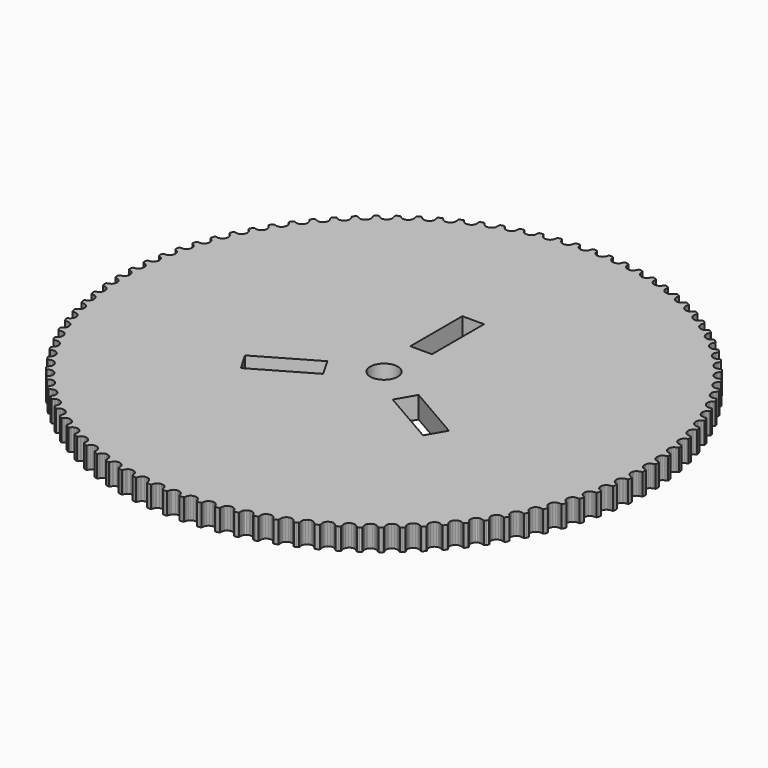
from build123d import *

# Parameters (mm, degrees)
F0_R     = 3.175
F0_W     = 5
F0_H     = 15
F1_DEPTH = 5


with BuildPart() as f1:
    # F0 (on Top) → F1 (new body)
    with BuildSketch(Plane.XY):
        Polygon((1.645678, -60.874562), (1.931777, -60.867744), (2.217737, -60.856447), (2.427363, -60.771911), (2.525377, -60.583751), (2.555452, -60.371243), (2.611569, -60.16341), (2.692773, -59.961615), (2.798248, -59.767612), (2.991979, -59.565622), (3.225348, -59.413497), (3.487078, -59.313378), (3.765773, -59.267604), (4.048072, -59.277733), (4.320378, -59.343959), (4.571102, -59.465309), (4.78885, -59.641198), (4.917718, -59.820203), (5.023855, -60.010116), (5.105975, -60.208989), (5.162832, -60.416043), (5.283617, -60.590569), (5.502514, -60.64764), (5.787637, -60.622708), (6.072273, -60.593295), (6.276113, -60.495709), (6.361973, -60.301511), (6.37853, -60.08764), (6.421323, -59.87669), (6.489595, -59.67022), (6.582565, -59.469789), (6.763089, -59.255917), (6.98633, -59.089378), (7.241203, -58.972898), (7.516411, -58.909399), (7.798768, -58.901608), (8.074736, -58.950498), (8.332648, -59.055681), (8.561089, -59.21735), (8.70106, -59.38798), (8.819021, -59.570686), (8.913627, -59.764106), (8.983495, -59.967069), (9.11511, -60.133414), (9.337221, -60.176655), (9.620123, -60.133608), (9.902344, -60.086276), (10.0996, -59.975834), (10.172975, -59.776572), (10.175916, -59.562116), (10.20525, -59.348829), (10.260296, -59.138463), (10.340332, -58.932578), (10.506969, -58.707799), (10.719204, -58.527235), (10.96613, -58.394978), (11.2368, -58.314143), (11.518086, -58.288432), (11.796566, -58.319597), (12.060653, -58.408223), (12.298892, -58.555089), (12.4494, -58.716564), (12.578716, -58.891284), (12.685399, -59.07847), (12.767987, -59.276564), (12.909905, -59.434338), (13.134276, -59.463361), (13.413925, -59.402394), (13.692542, -59.337142), (13.882397, -59.214624), (13.942994, -59.011076), (13.932339, -58.796815), (13.948078, -58.582164), (13.989664, -58.368682), (14.056513, -58.158122), (14.208541, -57.923214), (14.408895, -57.7296), (14.646919, -57.58176), (14.911921, -57.483979), (15.191045, -57.440737), (15.470928, -57.453983), (15.740118, -57.525857), (15.98718, -57.657336), (16.147622, -57.808682), (16.287749, -57.975026), (16.40608, -58.155006), (16.501075, -58.347451), (16.652713, -58.495875), (16.878467, -58.510679), (17.153695, -58.432181), (17.427637, -58.349399), (17.60933, -58.214999), (17.656877, -58.007945), (17.632646, -57.794852), (17.634769, -57.579618), (17.662701, -57.363993), (17.716091, -57.149537), (17.852867, -56.905475), (18.04056, -56.699589), (18.268748, -56.536946), (18.52701, -56.422608), (18.802822, -56.361641), (19.082978, -56.357161), (19.356181, -56.4117), (19.611112, -56.527207), (19.780768, -56.668229), (19.93114, -56.825224), (20.060671, -56.997412), (20.167801, -57.183429), (20.328497, -57.32192), (20.55464, -57.32231), (20.824414, -57.226671), (21.092629, -57.126553), (21.265402, -56.980855), (21.299683, -56.771464), (21.261896, -56.560125), (21.250403, -56.345085), (21.264622, -56.128292), (21.304358, -55.910914), (21.425318, -55.65867), (21.599649, -55.441293), (21.817026, -55.26443), (22.067517, -55.133926), (22.338849, -55.055623), (22.618168, -55.033418), (22.894369, -55.070427), (23.155963, -55.169571), (23.334384, -55.299686), (23.494495, -55.446747), (23.634544, -55.61017), (23.753166, -55.789175), (23.922432, -55.917147), (24.148186, -55.903318), (24.411337, -55.790538), (24.672541, -55.673864), (24.835769, -55.517453), (24.856805, -55.306114), (24.805577, -55.097696), (24.78045, -54.88402), (24.781035, -54.666447), (24.806746, -54.447122), (24.911539, -54.187672), (25.07165, -53.959776), (25.277341, -53.769473), (25.519066, -53.623386), (25.784945, -53.527943), (26.062315, -53.488207), (26.34027, -53.507685), (26.607707, -53.589883), (26.793919, -53.708311), (26.96299, -53.845049), (27.113168, -53.999317), (27.242893, -54.170336), (27.419951, -54.2874), (27.64434, -54.259157), (27.899895, -54.130016), (28.153113, -53.996979), (28.306017, -53.830635), (28.313614, -53.618322), (28.24953, -53.413605), (28.210768, -53.201876), (28.197523, -52.984888), (28.20921, -52.7642), (28.297447, -52.498711), (28.442755, -52.260881), (28.635979, -52.058112), (28.867965, -51.896832), (29.127221, -51.784832), (29.401475, -51.727566), (29.680209, -51.729319), (29.952321, -51.794571), (30.145545, -51.900923), (30.322992, -52.026557), (30.482714, -52.171086), (30.622957, -52.333535), (30.807027, -52.439107), (31.029274, -52.396645), (31.276064, -52.251531), (31.520321, -52.102717), (31.662513, -51.926829), (31.656474, -51.71471), (31.579535, -51.514279), (31.527528, -51.305472), (31.500454, -51.089847), (31.498311, -50.868964), (31.569407, -50.598216), (31.699327, -50.351816), (31.879306, -50.137165), (32.100579, -49.961471), (32.352238, -49.833109), (32.622402, -49.758508), (32.900552, -49.74273), (33.176169, -49.790452), (33.376016, -49.884532), (33.560865, -49.998675), (33.729547, -50.132685), (33.879724, -50.285784), (34.070222, -50.37967), (34.289352, -50.323183), (34.526208, -50.162682), (34.760726, -49.998675), (34.891426, -49.814215), (34.871947, -49.602876), (34.782542, -49.407704), (34.71729, -49.202598), (34.67658, -48.989116), (34.660413, -48.768817), (34.714173, -48.494173), (34.828316, -48.239982), (34.994271, -48.014229), (35.204052, -47.8249), (35.446946, -47.680955), (35.71185, -47.589407), (35.988442, -47.555905), (36.266592, -47.586096), (36.471892, -47.667126), (36.663753, -47.769387), (36.840421, -47.892489), (37.000143, -48.035849), (37.196095, -48.117269), (37.411135, -48.047147), (37.637472, -47.872037), (37.861083, -47.693227), (37.979705, -47.500976), (37.946982, -47.291195), (37.845305, -47.102256), (37.767197, -46.90163), (37.713048, -46.69107), (37.683051, -46.472329), (37.719281, -46.194763), (37.816867, -45.933949), (37.968408, -45.698067), (38.165528, -45.495883), (38.398878, -45.336745), (38.657354, -45.228641), (38.931414, -45.177803), (39.210927, -45.190269), (39.420903, -45.258053), (39.618802, -45.348043), (39.803066, -45.459459), (39.971553, -45.592495), (40.172179, -45.661253), (40.38235, -45.577692), (40.597195, -45.388558), (40.808924, -45.196112), (40.915276, -44.996655), (40.869307, -44.789211), (40.755748, -44.607089), (40.665175, -44.411917), (40.59778, -44.205253), (40.553759, -43.988849), (40.572458, -43.709531), (40.653293, -43.442873), (40.789446, -43.198031), (40.973516, -42.98377), (41.196347, -42.810219), (41.447422, -42.685753), (41.717585, -42.617579), (41.997293, -42.61232), (42.211165, -42.666664), (42.414518, -42.743993), (42.605405, -42.843527), (42.781878, -42.965656), (42.986595, -43.021558), (43.191117, -42.924751), (43.393496, -42.722372), (43.592564, -42.516876), (43.686059, -42.310991), (43.62704, -42.107053), (43.502185, -41.932528), (43.399339, -41.743394), (43.318894, -41.541405), (43.261238, -41.328117), (43.262212, -41.048215), (43.326101, -40.777077), (43.446477, -40.524054), (43.616522, -40.298496), (43.827861, -40.111115), (44.070561, -39.971066), (44.335855, -39.885946), (44.614589, -39.862962), (44.831577, -39.903672), (45.03941, -39.967755), (45.23614, -40.055212), (45.420015, -40.165654), (45.627848, -40.208506), (45.825747, -40.099039), (46.014881, -39.884193), (46.200704, -39.666426), (46.28076, -39.455087), (46.208885, -39.25524), (46.073316, -39.08909), (45.958589, -38.906774), (45.865678, -38.710238), (45.794582, -38.501236), (45.777831, -38.221723), (45.824384, -37.947079), (45.928398, -37.687044), (46.083835, -37.451163), (46.282902, -37.250731), (46.516252, -37.095489), (46.775508, -36.993618), (47.052294, -36.953103), (47.271425, -36.979983), (47.482764, -37.030821), (47.684754, -37.105423), (47.875446, -37.204178), (48.085422, -37.233785), (48.276114, -37.111851), (48.451224, -36.885514), (48.622632, -36.656254), (48.689248, -36.440435), (48.604907, -36.245458), (48.459015, -36.088268), (48.33299, -35.913548), (48.227613, -35.72344), (48.143662, -35.519113), (48.10899, -35.241548), (48.138013, -34.964372), (48.22547, -34.698104), (48.365519, -34.452872), (48.551537, -34.240364), (48.774563, -34.070709), (49.026806, -33.95267), (49.300476, -33.89443), (49.52097, -33.907481), (49.735036, -33.944684), (49.941311, -34.00643), (50.137847, -34.092719), (50.349381, -34.109081), (50.531892, -33.975265), (50.692199, -33.738215), (50.848804, -33.498632), (50.90159, -33.278917), (50.805172, -33.089783), (50.649541, -32.942138), (50.512804, -32.775793), (50.395544, -32.592698), (50.298737, -32.394214), (50.246536, -32.119376), (50.258028, -31.841031), (50.32815, -31.569699), (50.452616, -31.316092), (50.624609, -31.092092), (50.836338, -30.908606), (51.08079, -30.774791), (51.350174, -30.69941), (51.570863, -30.698436), (51.787072, -30.722004), (51.996853, -30.770505), (52.198453, -30.844328), (52.410572, -30.847055), (52.584123, -30.701942), (52.729236, -30.455152), (52.870453, -30.20622), (52.90902, -29.983583), (52.800721, -29.801072), (52.63613, -29.66336), (52.489069, -29.506171), (52.360512, -29.330866), (52.251239, -29.138811), (52.181702, -28.867868), (52.175469, -28.589329), (52.22845, -28.314101), (52.336359, -28.053092), (52.493939, -27.818574), (52.693591, -27.622233), (52.929083, -27.473029), (53.193208, -27.380702), (53.413313, -27.365704), (53.63069, -27.375638), (53.843004, -27.410699), (54.048889, -27.471471), (54.260812, -27.460952), (54.424819, -27.305126), (54.55396, -27.049571), (54.679011, -26.792263), (54.703554, -26.567484), (54.583762, -26.39218), (54.4106, -26.265376), (54.253995, -26.117731), (54.114531, -25.950997), (53.993376, -25.766343), (53.906892, -25.500075), (53.882934, -25.22251), (53.918384, -24.944555), (54.009543, -24.677313), (54.151734, -24.43325), (54.338726, -24.224443), (54.564089, -24.060826), (54.821981, -23.951942), (55.040722, -23.922919), (55.2581, -23.919024), (55.472361, -23.940645), (55.681557, -23.988172), (55.892507, -23.964213), (56.046191, -23.798259), (56.15897, -23.535107), (56.267464, -23.270397), (56.277593, -23.044644), (56.147088, -22.877131), (55.96633, -22.761625), (55.80057, -22.624108), (55.650782, -22.466529), (55.518135, -22.290056), (55.4149, -22.029826), (55.373411, -21.754404), (55.391136, -21.474696), (55.465154, -21.202195), (55.591763, -20.949561), (55.764924, -20.729457), (55.979575, -20.551815), (56.229871, -20.426765), (56.446469, -20.383913), (56.663068, -20.366187), (56.878302, -20.374173), (57.090226, -20.408455), (57.299033, -20.371057), (57.442004, -20.195752), (57.537837, -19.925978), (57.62919, -19.654841), (57.625099, -19.428854), (57.484271, -19.270067), (57.296501, -19.166131), (57.122365, -19.039561), (56.962838, -18.891721), (56.819283, -18.723916), (56.699687, -18.470893), (56.640862, -18.198587), (56.640862, -17.918373), (56.697349, -17.641664), (56.807791, -17.38159), (56.966734, -17.150851), (57.169503, -16.959944), (57.411423, -16.819292), (57.624904, -16.762863), (57.839945, -16.731445), (58.055179, -16.725738), (58.268856, -16.746482), (58.474936, -16.695897), (58.606609, -16.511827), (58.684912, -16.236619), (58.759124, -15.960203), (58.74062, -15.734936), (58.589858, -15.585421), (58.395854, -15.493601), (58.214122, -15.378348), (58.045635, -15.240889), (57.891562, -15.082551), (57.756383, -14.837592), (57.680418, -14.569551), (57.662498, -14.289941), (57.701454, -14.010174), (57.79495, -13.743653), (57.939089, -13.503311), (58.129392, -13.299919), (58.361962, -13.14421), (58.571159, -13.074341), (58.784056, -13.029327), (58.998512, -13.009985), (59.212968, -13.017153), (59.415347, -12.953595), (59.534944, -12.761578), (59.595911, -12.481929), (59.652203, -12.201344), (59.619479, -11.977734), (59.459563, -11.838075), (59.2603, -11.75874), (59.071556, -11.655252), (58.894693, -11.52876), (58.730881, -11.380511), (58.580314, -11.144609), (58.487402, -10.881964), (58.451952, -10.604009), (58.472988, -10.322334), (58.549538, -10.050437), (58.678095, -9.801407), (58.855152, -9.586348), (59.077204, -9.416205), (59.281726, -9.333208), (59.491312, -9.274832), (59.704015, -9.241894), (59.918471, -9.235447), (60.116565, -9.159189), (60.223695, -8.959965), (60.266742, -8.677005), (60.305309, -8.39344), (60.258367, -8.172342), (60.090074, -8.043104), (59.885942, -7.976566), (59.690965, -7.885252), (59.506505, -7.770233), (59.333733, -7.632658), (59.168557, -7.406807), (59.05909, -7.15057), (59.006109, -6.87544), (59.009225, -6.593005), (59.068439, -6.316803), (59.180829, -6.060099), (59.343862, -5.834248), (59.554812, -5.650354), (59.753685, -5.55456), (59.958986, -5.482997), (60.169156, -5.436658), (60.382833, -5.416615), (60.575668, -5.32793), (60.670137, -5.122298), (60.695069, -4.837234), (60.715327, -4.55176), (60.654749, -4.334071), (60.478471, -4.215779), (60.270443, -4.162351), (60.070207, -4.083561), (59.878735, -3.980482), (59.697587, -3.854126), (59.518387, -3.639223), (59.392947, -3.390427), (59.322631, -3.119211), (59.307827, -2.837146), (59.349316, -2.55775), (59.445149, -2.294462), (59.593573, -2.058717), (59.792446, -1.861815), (59.984892, -1.753599), (60.185323, -1.66913), (60.392182, -1.609567), (60.604106, -1.576012), (60.790903, -1.475286), (60.871932, -1.264085), (60.87875, -0.977986), (60.881087, -0.691829), (60.80668, -0.478398), (60.623195, -0.37155), (60.41244, -0.331395), (60.207528, -0.265473), (60.009824, -0.174734), (59.821079, -0.060127), (59.628634, 0.14293), (59.487806, 0.383288), (59.400154, 0.649472), (59.367625, 0.930043), (59.391194, 1.211506), (59.470276, 1.480366), (59.603507, 1.725033), (59.789525, 1.934153), (59.974568, 2.054354), (60.169156, 2.151336), (60.371925, 2.223912), (60.581316, 2.270874), (60.761296, 2.383225), (60.828885, 2.599141), (60.817588, 2.885102), (60.801616, 3.170829), (60.713963, 3.37909), (60.52405, 3.474105), (60.310958, 3.50081), (60.102346, 3.553596), (59.899382, 3.631607), (59.703626, 3.734004), (59.498714, 3.924521), (59.342888, 4.155416), (59.238679, 4.415549), (59.188425, 4.693503), (59.194074, 4.97588), (59.256015, 5.249199), (59.373274, 5.501832), (59.545657, 5.722326), (59.722714, 5.854038), (59.910874, 5.963175), (60.108579, 6.048431), (60.314464, 6.108561), (60.487042, 6.232112), (60.540802, 6.451885), (60.511389, 6.73656), (60.477302, 7.020709), (60.3766, 7.222971), (60.181038, 7.305754), (59.966777, 7.318921), (59.755243, 7.358345), (59.547799, 7.423364), (59.346004, 7.513119), (59.129211, 7.690216), (58.959166, 7.910788), (58.838596, 8.163752), (58.770811, 8.437948), (58.75854, 8.720168), (58.80295, 8.996838), (58.904043, 9.256405), (59.062011, 9.487398), (59.230498, 9.630057), (59.411257, 9.7509), (59.603118, 9.848564), (59.804913, 9.921627), (59.969309, 10.055871), (60.009045, 10.278605), (59.961518, 10.560845), (59.909511, 10.842268), (59.796147, 11.037732), (59.595716, 11.107932), (59.381065, 11.107484), (59.167389, 11.133429), (58.956244, 11.185144), (58.74919, 11.261907), (58.521684, 11.424941), (58.337809, 11.634273), (58.201656, 11.879076), (58.116536, 12.148422), (58.086539, 12.429279), (58.113225, 12.708227), (58.197566, 12.973697), (58.340731, 13.214234), (58.499674, 13.367255), (58.672446, 13.499337), (58.857684, 13.608961), (59.054415, 13.694685), (59.210046, 13.839097), (59.235563, 14.063915), (59.170116, 14.342552), (59.100578, 14.620117), (58.974943, 14.807985), (58.770422, 14.865348), (58.556355, 14.851285), (58.34151, 14.863615), (58.127444, 14.901812), (57.91591, 14.96533), (57.67847, 15.11358), (57.481739, 15.310816), (57.330198, 15.546504), (57.228132, 15.809928), (57.18041, 16.088292), (57.18937, 16.36837), (57.256765, 16.63865), (57.384348, 16.887777), (57.533357, 17.050616), (57.697364, 17.193372), (57.875395, 17.314546), (58.066282, 17.412561), (58.212174, 17.566517), (58.223472, 17.792504), (58.140689, 18.066446), (58.053426, 18.339045), (57.916299, 18.518556), (57.708661, 18.56285), (57.495764, 18.53523), (57.280529, 18.533905), (57.064515, 18.558448), (56.84928, 18.60841), (56.603074, 18.741329), (56.394267, 18.925691), (56.227923, 19.151308), (56.109495, 19.407701), (56.044243, 19.6825), (56.035283, 19.962598), (56.085537, 20.236657), (56.196952, 20.49338), (56.335248, 20.665179), (56.489906, 20.818083), (56.659951, 20.950341), (56.844215, 21.060198), (56.980174, 21.223231), (56.977057, 21.449374), (56.876939, 21.71759), (56.77273, 21.984052), (56.624306, 22.154487), (56.41433, 22.185653), (56.203575, 22.144553), (55.988925, 22.129555), (55.771742, 22.140268), (55.553975, 22.176498), (55.299589, 22.293562), (55.079484, 22.464387), (54.89931, 22.678842), (54.76491, 22.927385), (54.682127, 23.197354), (54.655637, 23.476283), (54.68836, 23.753069), (54.78322, 24.01622), (54.910413, 24.196589), (55.055136, 24.359038), (55.216222, 24.501814), (55.393279, 24.623163), (55.518719, 24.794377), (55.501189, 25.019936), (55.384319, 25.281139), (55.263359, 25.54059), (55.104416, 25.701286), (54.892882, 25.718816), (54.685244, 25.664472), (54.471957, 25.636033), (54.254579, 25.632917), (54.03467, 25.655317), (53.773661, 25.756019), (53.543233, 25.91243), (53.349814, 26.115199), (53.199636, 26.354587), (53.100102, 26.618907), (53.055887, 26.895498), (53.07108, 27.173648), (53.148993, 27.442448), (53.264499, 27.630608), (53.398509, 27.801822), (53.55044, 27.954337), (53.719317, 28.086789), (53.833459, 28.2656), (53.80171, 28.4896), (53.668673, 28.743012), (53.531546, 28.994087), (53.362669, 29.144459), (53.150356, 29.14855), (52.946614, 29.081155), (52.735469, 29.039277), (52.518676, 29.022331), (52.297987, 29.030706), (52.031135, 29.114658), (51.791163, 29.25607), (51.585277, 29.446178), (51.420296, 29.675632), (51.304206, 29.93294), (51.24246, 30.206415), (51.239927, 30.484954), (51.3007, 30.758039), (51.404129, 30.953212), (51.527037, 31.132412), (51.668839, 31.294471), (51.82895, 31.437247), (51.931601, 31.623069), (51.885827, 31.844537), (51.736818, 32.088989), (51.583914, 32.33091), (51.406077, 32.470179), (51.193959, 32.46083), (50.994891, 32.380774), (50.786863, 32.325456), (50.571628, 32.294875), (50.350744, 32.289226), (50.079023, 32.356037), (49.83048, 32.482061), (49.613102, 32.658729), (49.433902, 32.87708), (49.301645, 33.126597), (49.222758, 33.395592), (49.2025, 33.673352), (49.245937, 33.949943), (49.336706, 34.150959), (49.447927, 34.337756), (49.57921, 34.50858), (49.729972, 34.66129), (49.820741, 34.852956), (49.760748, 35.071307), (49.596741, 35.305631), (49.428838, 35.537422), (49.242431, 35.6652), (49.031286, 35.64241), (48.837672, 35.549889), (48.63354, 35.481325), (48.420643, 35.437304), (48.200733, 35.417631), (47.92531, 35.467106), (47.669366, 35.576963), (47.44108, 35.739607), (47.24844, 35.946077), (47.1006, 36.186828), (47.004767, 36.450174), (46.966979, 36.726181), (46.992691, 37.004915), (47.070604, 37.211385), (47.169748, 37.404804), (47.289929, 37.58342), (47.430757, 37.745479), (47.50906, 37.942599), (47.435432, 38.156665), (47.256816, 38.380081), (47.074694, 38.60077), (46.880496, 38.716471), (46.671299, 38.680436), (46.483918, 38.575643), (46.284656, 38.494419), (46.074875, 38.436958), (45.856523, 38.403455), (45.578568, 38.435205), (45.316196, 38.5287), (45.077977, 38.676346), (44.872676, 38.870349), (44.709837, 39.101167), (44.597643, 39.358085), (44.542324, 39.630976), (44.550505, 39.910684), (44.614978, 40.121828), (44.701656, 40.321286), (44.810345, 40.507108), (44.940655, 40.677738), (45.006297, 40.879533), (44.919229, 41.08834), (44.726783, 41.300069), (44.530832, 41.508681), (44.329816, 41.611916), (44.123152, 41.562636), (43.942978, 41.446156), (43.749169, 41.352465), (43.543479, 41.281759), (43.327854, 41.234427), (43.048341, 41.248646), (42.780515, 41.32539), (42.53353, 41.457648), (42.316347, 41.638212), (42.139095, 41.858121), (42.010928, 42.107248), (41.938469, 42.376243), (41.92873, 42.655951), (41.979763, 42.870602), (42.053586, 43.075124), (42.150198, 43.267569), (42.269405, 43.446185), (42.322191, 43.65168), (42.222073, 43.854449), (42.016577, 44.053712), (41.80777, 44.249468), (41.600521, 44.339653), (41.397557, 44.277322), (41.22498, 44.14974), (41.037599, 44.043973), (40.836778, 43.960411), (40.62466, 43.899444), (40.344757, 43.895743), (40.072646, 43.955347), (39.817675, 44.071632), (39.58939, 44.238171), (39.398697, 44.446589), (39.254948, 44.68695), (39.165542, 44.950881), (39.138078, 45.22942), (39.175282, 45.446798), (39.236249, 45.655605), (39.320395, 45.853699), (39.42811, 46.039521), (39.46765, 46.247939), (39.354871, 46.444085), (39.137104, 46.629713), (38.916415, 46.81203), (38.703907, 46.888774), (38.505229, 46.813783), (38.341222, 46.675487), (38.160853, 46.558033), (37.965681, 46.46181), (37.757653, 46.387598), (37.478724, 46.366172), (37.203302, 46.40844), (36.941514, 46.508363), (36.703294, 46.659904), (36.499746, 46.855856), (36.340804, 47.086673), (36.235037, 47.344371), (36.189847, 47.620573), (36.213416, 47.839898), (36.260748, 48.052211), (36.332233, 48.25537), (36.427872, 48.447425), (36.454167, 48.657985), (36.329117, 48.846535), (36.100052, 49.018139), (35.868261, 49.186041), (35.651273, 49.249151), (35.457854, 49.161693), (35.302807, 49.013269), (35.130229, 48.884518), (34.94168, 48.776218), (34.738911, 48.688956), (34.461735, 48.649999), (34.184364, 48.674542), (33.916733, 48.757714), (33.669164, 48.893867), (33.453734, 49.076379), (33.280573, 49.296678), (33.158444, 49.547168), (33.095919, 49.819864), (33.105463, 50.040358), (33.139355, 50.255204), (33.19779, 50.462452), (33.280962, 50.660352), (33.294013, 50.87208), (33.157275, 51.052449), (32.917692, 51.209054), (32.675772, 51.361764), (32.455278, 51.411044), (32.267703, 51.31151), (32.122395, 51.153541), (31.958388, 51.014272), (31.777045, 50.894091), (31.58012, 50.794167), (31.30606, 50.73768), (31.027521, 50.744692), (30.755215, 50.810529), (30.49966, 50.930905), (30.272933, 51.099392), (30.086136, 51.308199), (29.948425, 51.550509), (29.868759, 51.818724), (29.864279, 52.039413), (29.884536, 52.255817), (29.929726, 52.466377), (30.000237, 52.669146), (29.999653, 52.881264), (29.851813, 53.052478), (29.60288, 53.193695), (29.351611, 53.330822), (29.12839, 53.366078), (28.947631, 53.254662), (28.812647, 53.087928), (28.657795, 52.938335), (28.484438, 52.807052), (28.29433, 52.694857), (28.024361, 52.621034), (27.745822, 52.610321), (27.47001, 52.658822), (27.207248, 52.762641), (26.970392, 52.91652), (26.77074, 53.113055), (26.617836, 53.346015), (26.521418, 53.608777), (26.502914, 53.828687), (26.509342, 54.046064), (26.541091, 54.258962), (26.598552, 54.465821), (26.584528, 54.67755), (26.426169, 54.839025), (26.168667, 54.964075), (25.909411, 55.085035), (25.684242, 55.105877), (25.510885, 54.983554), (25.386809, 54.808444), (25.241696, 54.649307), (25.077104, 54.50731), (24.894398, 54.383233), (24.629688, 54.292465), (24.352513, 54.264221), (24.073973, 54.295192), (23.805368, 54.382065), (23.559163, 54.520555), (23.347434, 54.70404), (23.180116, 54.926872), (23.067142, 55.182816), (23.034613, 55.401168), (23.027406, 55.618545), (23.045521, 55.833001), (23.089736, 56.042977), (23.062467, 56.253537), (22.89398, 56.404688), (22.62927, 56.513182), (22.362613, 56.617391), (22.136859, 56.624014), (21.971489, 56.490782), (21.85871, 56.308076), (21.724115, 56.140173), (21.568678, 55.988048), (21.394348, 55.852674), (21.135871, 55.745154), (20.861033, 55.69938), (20.58113, 55.712625), (20.30746, 55.782358), (20.053074, 55.904876), (19.830048, 56.074726), (19.649095, 56.286455), (19.519954, 56.534803), (19.47379, 56.750622), (19.452656, 56.967026), (19.457195, 57.182261), (19.488204, 57.394574), (19.447358, 57.602797), (19.269775, 57.74304), (18.998598, 57.834588), (18.72602, 57.921656), (18.500169, 57.914059), (18.343622, 57.770505), (18.242666, 57.581176), (18.118901, 57.405092), (17.973593, 57.243228), (17.808106, 57.096946), (17.556992, 56.973454), (17.28566, 56.910344), (17.005465, 56.905864), (16.72788, 56.958066), (16.466151, 57.064222), (16.232898, 57.219464), (16.038778, 57.419311), (15.894308, 57.658894), (15.834509, 57.871402), (15.799663, 58.086053), (15.790527, 58.301093), (15.807902, 58.515159), (15.754045, 58.720265), (15.56793, 58.849016), (15.291494, 58.923034), (15.013929, 58.992766), (14.789033, 58.970756), (14.641894, 58.817656), (14.55319, 58.622289), (14.4408, 58.438609), (14.306049, 58.26798), (14.150165, 58.111569), (13.907388, 57.972299), (13.640613, 57.892049), (13.361295, 57.869844), (13.080964, 57.90432), (12.812982, 57.993531), (12.57038, 58.133774), (12.363988, 58.32096), (12.204597, 58.550999), (12.131417, 58.759222), (12.083033, 58.971145), (12.060302, 59.185211), (12.064062, 59.399862), (11.99729, 59.601267), (11.803403, 59.717747), (11.522819, 59.774234), (11.241416, 59.826241), (11.018312, 59.790012), (10.881244, 59.627758), (10.805045, 59.427131), (10.704556, 59.236829), (10.580908, 59.058018), (10.43525, 58.891869), (10.201783, 58.737601), (9.940638, 58.640599), (9.663306, 58.600668), (9.381319, 58.617225), (9.108234, 58.689489), (8.857218, 58.813956), (8.639373, 58.987702), (8.465724, 59.207027), (8.379493, 59.410185), (8.317767, 59.618798), (8.281498, 59.830916), (8.271642, 60.045372), (8.192229, 60.242102), (7.99133, 60.346116), (7.707766, 60.384683), (7.423597, 60.418575), (7.203259, 60.368321), (7.076748, 60.197887), (7.013443, 59.99278), (6.925226, 59.796439), (6.813148, 59.610227), (6.67832, 59.435118), (6.455118, 59.266436), (6.200635, 59.153072), (5.9264, 59.095611), (5.643965, 59.094248), (5.366828, 59.148982), (5.10841, 59.257281), (4.880008, 59.416808), (4.692763, 59.624836), (4.593833, 59.822151), (4.519037, 60.026283), (4.469348, 60.235674), (4.445915, 60.449156), (4.354192, 60.640433), (4.147099, 60.731591), (3.861645, 60.751849), (3.575918, 60.767821), (3.359203, 60.703737), (3.243736, 60.525511), (3.193579, 60.316899), (3.117984, 60.115299), (3.017983, 59.922269), (2.89451, 59.738979), (2.68245, 59.556467), (2.435699, 59.427131), (2.165633, 59.352335), (1.883837, 59.333246), (1.603802, 59.370255), (1.339041, 59.461998), (1.100972, 59.606721), (0.900917, 59.802283), (0.789671, 59.992975), (0.702051, 60.192043), (0.63922, 60.397928), (0.602276, 60.609268), (0.498607, 60.794506), (0.286159, 60.872224), (0, 60.874562), (-0.286159, 60.872224), (-0.49834, 60.794506), (-0.602276, 60.609268), (-0.639102, 60.397928), (-0.701753, 60.192043), (-0.789343, 59.992975), (-0.900917, 59.802283), (-1.100972, 59.606721), (-1.339041, 59.461998), (-1.603802, 59.370255), (-1.883837, 59.333246), (-2.165633, 59.352335), (-2.435699, 59.427131), (-2.68245, 59.556467), (-2.89451, 59.738979), (-3.017613, 59.922269), (-3.117692, 60.115299), (-3.193482, 60.316899), (-3.243736, 60.525511), (-3.35895, 60.703737), (-3.575918, 60.767821), (-3.861645, 60.751849), (-4.147099, 60.731591), (-4.353939, 60.640433), (-4.445915, 60.449156), (-4.46925, 60.235674), (-4.518705, 60.026283), (-4.593522, 59.822151), (-4.692763, 59.624836), (-4.880008, 59.416808), (-5.10841, 59.257281), (-5.366828, 59.148982), (-5.643965, 59.094248), (-5.9264, 59.095611), (-6.200635, 59.153072), (-6.455118, 59.266436), (-6.67832, 59.435118), (-6.812817, 59.610227), (-6.924934, 59.796439), (-7.013327, 59.99278), (-7.076748, 60.197887), (-7.203006, 60.368321), (-7.423597, 60.418575), (-7.707766, 60.384683), (-7.99133, 60.346116), (-8.191976, 60.242102), (-8.271642, 60.045372), (-8.28142, 59.830916), (-8.317475, 59.618798), (-8.379162, 59.41038), (-8.465724, 59.207027), (-8.639373, 58.987702), (-8.857218, 58.813956), (-9.108234, 58.689489), (-9.381319, 58.617225), (-9.663306, 58.600668), (-9.940638, 58.640599), (-10.201783, 58.737601), (-10.43525, 58.891869), (-10.580557, 59.058018), (-10.704283, 59.236829), (-10.804947, 59.427131), (-10.881244, 59.627758), (-11.018059, 59.790012), (-11.241416, 59.826241), (-11.522819, 59.774234), (-11.803384, 59.717747), (-11.997037, 59.601267), (-12.064062, 59.399862), (-12.060205, 59.185211), (-12.082741, 58.971145), (-12.131086, 58.759222), (-12.204597, 58.550999), (-12.363988, 58.32096), (-12.57038, 58.133774), (-12.812982, 57.993531), (-13.080964, 57.90432), (-13.361295, 57.869844), (-13.640613, 57.892049), (-13.907388, 57.972299), (-14.150165, 58.111569), (-14.305718, 58.26798), (-14.440508, 58.438609), (-14.553073, 58.622289), (-14.641894, 58.817656), (-14.78876, 58.970756), (-15.013929, 58.992766), (-15.291494, 58.923034), (-15.56793, 58.849016), (-15.753791, 58.72046), (-15.807902, 58.515159), (-15.79043, 58.301093), (-15.79937, 58.086053), (-15.834159, 57.871402), (-15.894308, 57.658894), (-16.038778, 57.419311), (-16.232898, 57.219464), (-16.466151, 57.064222), (-16.72788, 56.958066), (-17.005465, 56.905864), (-17.28566, 56.910344), (-17.556992, 56.973454), (-17.808106, 57.096946), (-17.973262, 57.243423), (-18.118609, 57.405092), (-18.242569, 57.581176), (-18.343622, 57.770505), (-18.499877, 57.914059), (-18.72602, 57.921656), (-18.998598, 57.834588), (-19.269775, 57.74304), (-19.447125, 57.602991), (-19.488204, 57.394574), (-19.457117, 57.182261), (-19.452384, 56.967026), (-19.473479, 56.750622), (-19.519954, 56.534803), (-19.649095, 56.286455), (-19.830048, 56.074726), (-20.053074, 55.904876), (-20.30746, 55.782358), (-20.58113, 55.712625), (-20.861033, 55.69938), (-21.135871, 55.745154), (-21.394348, 55.852674), (-21.568484, 55.988243), (-21.723725, 56.140368), (-21.85871, 56.308271), (-21.971489, 56.490782), (-22.13647, 56.624014), (-22.362613, 56.617391), (-22.62927, 56.513182), (-22.89398, 56.404688), (-23.062077, 56.253537), (-23.089736, 56.042977), (-23.045521, 55.833001), (-23.027016, 55.618545), (-23.034418, 55.401363), (-23.067142, 55.182816), (-23.180116, 54.926872), (-23.347434, 54.70404), (-23.559163, 54.520555), (-23.805368, 54.382065), (-24.073973, 54.295192), (-24.352513, 54.264221), (-24.629688, 54.292465), (-24.894398, 54.383233), (-25.076715, 54.507505), (-25.241501, 54.649501), (-25.386614, 54.808444), (-25.510885, 54.983554), (-25.684047, 55.106072), (-25.909411, 55.085035), (-26.168667, 54.964075), (-26.426169, 54.839025), (-26.584333, 54.67755), (-26.598552, 54.465821), (-26.540896, 54.258962), (-26.508952, 54.046064), (-26.502524, 53.828882), (-26.521418, 53.608777), (-26.617836, 53.346015), (-26.77074, 53.113055), (-26.970392, 52.91652), (-27.207248, 52.762641), (-27.47001, 52.658822), (-27.745822, 52.610321), (-28.024361, 52.621034), (-28.29433, 52.694857), (-28.484049, 52.807247), (-28.657405, 52.93853), (-28.812452, 53.087928), (-28.947631, 53.254662), (-29.128195, 53.366078), (-29.351611, 53.330822), (-29.60288, 53.193695), (-29.851813, 53.052478), (-29.999458, 52.881459), (-30.000237, 52.669146), (-29.929531, 52.466377), (-29.884147, 52.256011), (-29.864084, 52.039608), (-29.868759, 51.818724), (-29.948425, 51.550509), (-30.086136, 51.308199), (-30.272933, 51.099392), (-30.49966, 50.930905), (-30.755215, 50.810529), (-31.027521, 50.744692), (-31.30606, 50.73768), (-31.58012, 50.794167), (-31.77685, 50.894286), (-31.957998, 51.014467), (-32.1222, 51.153541), (-32.267703, 51.31151), (-32.454889, 51.411239), (-32.675772, 51.361764), (-32.917692, 51.209054), (-33.157275, 51.052449), (-33.293623, 50.872275), (-33.280962, 50.660352), (-33.19779, 50.462452), (-33.13916, 50.255398), (-33.105268, 50.040553), (-33.095919, 49.819864), (-33.158444, 49.547168), (-33.280573, 49.296678), (-33.453734, 49.076379), (-33.669164, 48.893867), (-33.916733, 48.757714), (-34.184364, 48.674542), (-34.461735, 48.649999), (-34.738911, 48.688956), (-34.941485, 48.776413), (-35.130034, 48.884712), (-35.302807, 49.013269), (-35.457854, 49.161693), (-35.651078, 49.249346), (-35.868261, 49.186041), (-36.100052, 49.018139), (-36.329117, 48.846535), (-36.453972, 48.65818), (-36.427872, 48.447425), (-36.332233, 48.25537), (-36.260553, 48.052406), (-36.213026, 47.840288), (-36.189847, 47.620573), (-36.235037, 47.344371), (-36.340804, 47.086673), (-36.499746, 46.855856), (-36.703294, 46.659904), (-36.941514, 46.508363), (-37.203302, 46.40844), (-37.478724, 46.366172), (-37.757653, 46.387598), (-37.965486, 46.462005), (-38.160464, 46.558228), (-38.341027, 46.675487), (-38.505229, 46.813783), (-38.703713, 46.888969), (-38.916415, 46.81203), (-39.137104, 46.629713), (-39.354871, 46.444085), (-39.467456, 46.248134), (-39.42811, 46.039521), (-39.320395, 45.853894), (-39.235859, 45.6558), (-39.175087, 45.446992), (-39.138078, 45.22942), (-39.165542, 44.950881), (-39.254948, 44.68695), (-39.398697, 44.446589), (-39.58939, 44.238171), (-39.817675, 44.071632), (-40.072646, 43.955347), (-40.344757, 43.895743), (-40.62466, 43.899444), (-40.836583, 43.960606), (-41.037404, 44.044167), (-41.22498, 44.14974), (-41.397557, 44.277322), (-41.600326, 44.339848), (-41.80777, 44.249468), (-42.016577, 44.053712), (-42.222073, 43.854449), (-42.321996, 43.651875), (-42.269405, 43.446185), (-42.150198, 43.267569), (-42.053391, 43.075318), (-41.979373, 42.870991), (-41.92873, 42.655951), (-41.938469, 42.376243), (-42.010928, 42.107248), (-42.139095, 41.858121), (-42.316347, 41.638212), (-42.53353, 41.457648), (-42.780515, 41.32539), (-43.048341, 41.248646), (-43.327854, 41.234427), (-43.543284, 41.281954), (-43.748974, 41.35266), (-43.942783, 41.446351), (-44.123152, 41.562636), (-44.329622, 41.612111), (-44.530832, 41.508681), (-44.726783, 41.300069), (-44.919229, 41.08834), (-45.006102, 40.879728), (-44.940655, 40.677738), (-44.81015, 40.507108), (-44.701462, 40.32148), (-44.614783, 40.122023), (-44.550505, 39.910684), (-44.542324, 39.630976), (-44.597643, 39.358085), (-44.709837, 39.101167), (-44.872676, 38.870349), (-45.077977, 38.676346), (-45.316196, 38.5287), (-45.578568, 38.435205), (-45.856523, 38.403455), (-46.07468, 38.437153), (-46.284461, 38.494613), (-46.483918, 38.575838), (-46.671299, 38.680436), (-46.880301, 38.716666), (-47.074694, 38.60077), (-47.256816, 38.380081), (-47.435432, 38.156665), (-47.508865, 37.942794), (-47.430757, 37.745479), (-47.289929, 37.583615), (-47.169553, 37.405194), (-47.070409, 37.21158), (-46.992691, 37.004915), (-46.966979, 36.726181), (-47.004767, 36.450174), (-47.1006, 36.186828), (-47.24844, 35.946077), (-47.44108, 35.739607), (-47.669366, 35.576963), (-47.92531, 35.467106), (-48.200733, 35.417631), (-48.420448, 35.437499), (-48.63354, 35.481715), (-48.837672, 35.549889), (-49.031286, 35.64241), (-49.242236, 35.665395), (-49.428838, 35.537422), (-49.596741, 35.305631), (-49.760748, 35.071307), (-49.820546, 34.853346), (-49.729972, 34.66129), (-49.57921, 34.50858), (-49.447732, 34.338145), (-49.336511, 34.151349), (-49.245937, 33.949943), (-49.2025, 33.673352), (-49.222758, 33.395592), (-49.301645, 33.126597), (-49.433902, 32.87708), (-49.613102, 32.658729), (-49.83048, 32.482061), (-50.079023, 32.356037), (-50.350744, 32.289226), (-50.571433, 32.295264), (-50.786668, 32.32565), (-50.994891, 32.380774), (-51.193959, 32.46083), (-51.405882, 32.470374), (-51.583914, 32.33091), (-51.736818, 32.088989), (-51.885827, 31.844537), (-51.931601, 31.623264), (-51.82895, 31.437247), (-51.668839, 31.294666), (-51.526842, 31.132801), (-51.403935, 30.953406), (-51.3007, 30.758039), (-51.239927, 30.484954), (-51.24246, 30.206415), (-51.304206, 29.93294), (-51.420296, 29.675632), (-51.585277, 29.446178), (-51.791163, 29.25607), (-52.031135, 29.114658), (-52.297987, 29.030706), (-52.518676, 29.02272), (-52.735469, 29.039471), (-52.946614, 29.08135), (-53.150356, 29.14855), (-53.362475, 29.144654), (-53.531546, 28.994087), (-53.668673, 28.743012), (-53.80171, 28.4896), (-53.833459, 28.265795), (-53.719317, 28.086789), (-53.550245, 27.954532), (-53.398315, 27.802017), (-53.264304, 27.630803), (-53.148993, 27.442448), (-53.07108, 27.173648), (-53.055887, 26.895498), (-53.100102, 26.618907), (-53.199636, 26.354587), (-53.349814, 26.115199), (-53.543233, 25.91243), (-53.773661, 25.756019), (-54.03467, 25.655317), (-54.254385, 25.633306), (-54.471762, 25.636228), (-54.685244, 25.664666), (-54.892882, 25.718816), (-55.104416, 25.70148), (-55.263359, 25.54059), (-55.384319, 25.281139), (-55.501189, 25.019936), (-55.518524, 24.794572), (-55.393279, 24.623163), (-55.216222, 24.501814), (-55.054942, 24.359233), (-54.910413, 24.196979), (-54.78322, 24.01622), (-54.68836, 23.753069), (-54.655637, 23.476283), (-54.682127, 23.197354), (-54.76491, 22.927385), (-54.89931, 22.678842), (-55.079484, 22.464387), (-55.299589, 22.293562), (-55.553975, 22.176498), (-55.771742, 22.140658), (-55.988925, 22.12975), (-56.203575, 22.144553), (-56.41433, 22.185653), (-56.624306, 22.154877), (-56.77273, 21.984052), (-56.876939, 21.71759), (-56.977057, 21.449374), (-56.980174, 21.223426), (-56.844215, 21.060198), (-56.659756, 20.950535), (-56.489906, 20.818473), (-56.335248, 20.665568), (-56.196952, 20.49338), (-56.085537, 20.236657), (-56.035283, 19.962598), (-56.044243, 19.6825), (-56.109495, 19.407701), (-56.227923, 19.151308), (-56.394267, 18.925691), (-56.603074, 18.741329), (-56.84928, 18.60841), (-57.06432, 18.558779), (-57.280334, 18.534198), (-57.495764, 18.535327), (-57.708661, 18.56285), (-57.916105, 18.518829), (-58.053426, 18.339045), (-58.140689, 18.066446), (-58.223472, 17.792504), (-58.212174, 17.56679), (-58.066282, 17.412561), (-57.8752, 17.314644), (-57.697169, 17.193664), (-57.533162, 17.050947), (-57.384348, 16.887777), (-57.256765, 16.63865), (-57.18937, 16.36837), (-57.18041, 16.088292), (-57.228132, 15.809928), (-57.330198, 15.546504), (-57.481739, 15.310816), (-57.67847, 15.11358), (-57.91591, 14.96533), (-58.127249, 14.902143), (-58.341315, 14.863927), (-58.556355, 14.851383), (-58.770422, 14.865348), (-58.974943, 14.808258), (-59.100578, 14.620117), (-59.170116, 14.342552), (-59.235368, 14.063915), (-59.209851, 13.83937), (-59.054415, 13.694685), (-58.857684, 13.609058), (-58.672446, 13.499649), (-58.499674, 13.367625), (-58.340731, 13.214234), (-58.197566, 12.973697), (-58.113225, 12.708227), (-58.086539, 12.429279), (-58.116536, 12.148422), (-58.201656, 11.879076), (-58.337809, 11.634273), (-58.521684, 11.424941), (-58.74919, 11.261907), (-58.956244, 11.185475), (-59.167389, 11.133721), (-59.381065, 11.107601), (-59.595716, 11.107932), (-59.796147, 11.037985), (-59.909511, 10.842268), (-59.961518, 10.560845), (-60.009045, 10.278605), (-59.969114, 10.056144), (-59.804913, 9.921627), (-59.603118, 9.848661), (-59.411257, 9.751192), (-59.230498, 9.630388), (-59.062011, 9.487398), (-58.904043, 9.256405), (-58.80295, 8.996838), (-58.75854, 8.720168), (-58.770811, 8.437948), (-58.838596, 8.163752), (-58.959166, 7.910788), (-59.129211, 7.690216), (-59.346004, 7.513119), (-59.547605, 7.423675), (-59.755243, 7.358657), (-59.966777, 7.318999), (-60.181038, 7.305754), (-60.3766, 7.223244), (-60.477302, 7.020709), (-60.511389, 6.73656), (-60.540802, 6.451904), (-60.487042, 6.232384), (-60.314464, 6.108561), (-60.108579, 6.048529), (-59.910874, 5.963467), (-59.722714, 5.85435), (-59.545657, 5.722326), (-59.373274, 5.501832), (-59.256015, 5.249199), (-59.194074, 4.97588), (-59.188425, 4.693503), (-59.238679, 4.415549), (-59.342888, 4.155416), (-59.498714, 3.924521), (-59.703626, 3.734004), (-59.899382, 3.631957), (-60.102346, 3.553908), (-60.310958, 3.500927), (-60.52405, 3.474105), (-60.713769, 3.379363), (-60.801616, 3.170829), (-60.817588, 2.885102), (-60.828885, 2.599141), (-60.761296, 2.383517), (-60.581316, 2.270874), (-60.371925, 2.224029), (-60.169156, 2.151648), (-59.974568, 2.054704), (-59.789525, 1.934153), (-59.603507, 1.725033), (-59.470276, 1.480366), (-59.391194, 1.211506), (-59.367625, 0.930043), (-59.400154, 0.649472), (-59.487806, 0.383288), (-59.628634, 0.14293), (-59.821079, -0.060127), (-60.009824, -0.174406), (-60.207528, -0.265177), (-60.41244, -0.331277), (-60.623195, -0.37155), (-60.80668, -0.478131), (-60.881087, -0.691829), (-60.87875, -0.977986), (-60.871932, -1.264085), (-60.790903, -1.475019), (-60.604106, -1.576012), (-60.392182, -1.60948), (-60.185323, -1.668832), (-59.984892, -1.753272), (-59.792446, -1.861815), (-59.593573, -2.058717), (-59.445149, -2.294462), (-59.349316, -2.55775), (-59.307827, -2.837146), (-59.322631, -3.119211), (-59.392947, -3.390427), (-59.518387, -3.639223), (-59.697587, -3.854126), (-59.878735, -3.980131), (-60.070207, -4.083249), (-60.270443, -4.162234), (-60.478471, -4.215779), (-60.654749, -4.333818), (-60.715327, -4.55176), (-60.695069, -4.837234), (-60.670137, -5.122298), (-60.575668, -5.327658), (-60.382833, -5.416615), (-60.169156, -5.436561), (-59.958986, -5.482685), (-59.753685, -5.554229), (-59.554812, -5.650354), (-59.343862, -5.834248), (-59.180829, -6.060099), (-59.068439, -6.316803), (-59.009225, -6.593005), (-59.006109, -6.87544), (-59.05909, -7.15057), (-59.168557, -7.406807), (-59.333733, -7.632658), (-59.506505, -7.769902), (-59.691159, -7.88494), (-59.885942, -7.976469), (-60.090074, -8.043104), (-60.258561, -8.17205), (-60.305309, -8.39344), (-60.266742, -8.677005), (-60.223695, -8.959965), (-60.116565, -9.158916), (-59.918471, -9.235447), (-59.704015, -9.241816), (-59.491312, -9.274501), (-59.281921, -9.332877), (-59.077204, -9.416205), (-58.855152, -9.586348), (-58.678095, -9.801407), (-58.549538, -10.050437), (-58.472988, -10.322334), (-58.451952, -10.604009), (-58.487402, -10.881964), (-58.580314, -11.144609), (-58.730881, -11.380511), (-58.894693, -11.528409), (-59.071556, -11.654959), (-59.2603, -11.758623), (-59.459563, -11.838075), (-59.619674, -11.977461), (-59.652203, -12.201344), (-59.595911, -12.481929), (-59.534944, -12.761578), (-59.415347, -12.953342), (-59.212968, -13.017153), (-58.998512, -13.009887), (-58.784056, -13.029034), (-58.571354, -13.07401), (-58.361962, -13.14421), (-58.129392, -13.299919), (-57.939089, -13.503311), (-57.79495, -13.743653), (-57.701454, -14.010174), (-57.662498, -14.289941), (-57.680418, -14.569551), (-57.756383, -14.837592), (-57.891562, -15.082551), (-58.045635, -15.240558), (-58.214122, -15.378036), (-58.395854, -15.493503), (-58.589858, -15.585421), (-58.74062, -15.734703), (-58.759124, -15.960203), (-58.684912, -16.236619), (-58.606609, -16.511827), (-58.474936, -16.695624), (-58.268856, -16.746482), (-58.055374, -16.725621), (-57.840139, -16.731152), (-57.624904, -16.762532), (-57.411423, -16.819292), (-57.169503, -16.959944), (-56.966734, -17.150851), (-56.807791, -17.38159), (-56.697349, -17.641664), (-56.640862, -17.918373), (-56.640862, -18.198587), (-56.699687, -18.470893), (-56.819283, -18.723916), (-56.963033, -18.89139), (-57.122365, -19.039289), (-57.296501, -19.166053), (-57.484271, -19.270067), (-57.625294, -19.428581), (-57.62919, -19.654841), (-57.537837, -19.925978), (-57.442004, -20.195752), (-57.299228, -20.370862), (-57.090226, -20.408455), (-56.878302, -20.374173), (-56.663262, -20.365992), (-56.446469, -20.383523), (-56.229871, -20.426765), (-55.979575, -20.551815), (-55.764924, -20.729457), (-55.591763, -20.949561), (-55.465154, -21.202195), (-55.391136, -21.474696), (-55.373411, -21.754404), (-55.4149, -22.029826), (-55.518135, -22.290056), (-55.650977, -22.46614), (-55.80057, -22.623914), (-55.96633, -22.76143), (-56.147088, -22.877131), (-56.277787, -23.044255), (-56.267464, -23.270397), (-56.15897, -23.535107), (-56.046191, -23.798259), (-55.892507, -23.964019), (-55.681557, -23.988172), (-55.472361, -23.94045), (-55.258295, -23.918829), (-55.040917, -23.922725), (-54.821981, -23.951942), (-54.564089, -24.060826), (-54.338726, -24.224443), (-54.151734, -24.43325), (-54.009543, -24.677313), (-53.918384, -24.944555), (-53.882934, -25.22251), (-53.906892, -25.500075), (-53.993376, -25.766343), (-54.114725, -25.950607), (-54.25419, -26.117536), (-54.410795, -26.265181), (-54.583762, -26.39218), (-54.703554, -26.567289), (-54.679011, -26.792263), (-54.55396, -27.049571), (-54.424819, -27.305126), (-54.260812, -27.460563), (-54.048889, -27.471471), (-53.843004, -27.410699), (-53.63069, -27.375248), (-53.413508, -27.365509), (-53.193208, -27.380702), (-52.929083, -27.473029), (-52.693591, -27.622233), (-52.493939, -27.818574), (-52.336359, -28.053092), (-52.22845, -28.314101), (-52.175469, -28.589329), (-52.181702, -28.867868), (-52.251239, -29.138811), (-52.360707, -29.330477), (-52.489264, -29.505976), (-52.63613, -29.66336), (-52.800721, -29.801072), (-52.909215, -29.983388), (-52.870453, -30.20622), (-52.729236, -30.455152), (-52.584123, -30.701942), (-52.410766, -30.84686), (-52.198453, -30.844328), (-51.996853, -30.770505), (-51.787267, -30.721615), (-51.571058, -30.698046), (-51.350174, -30.69941), (-51.08079, -30.774791), (-50.836338, -30.908606), (-50.624609, -31.092092), (-50.452616, -31.316092), (-50.32815, -31.569699), (-50.258028, -31.841031), (-50.246536, -32.119376), (-50.298737, -32.394214), (-50.395739, -32.592503), (-50.512804, -32.775599), (-50.649541, -32.941943), (-50.805172, -33.089783), (-50.901785, -33.278722), (-50.848804, -33.498632), (-50.692199, -33.738215), (-50.531892, -33.975265), (-50.349576, -34.108886), (-50.137847, -34.092719), (-49.941506, -34.00643), (-49.735231, -33.94449), (-49.521165, -33.907091), (-49.300476, -33.89443), (-49.026806, -33.95267), (-48.774563, -34.070709), (-48.551537, -34.240364), (-48.365519, -34.452872), (-48.22547, -34.698104), (-48.138013, -34.964372), (-48.10899, -35.241548), (-48.143662, -35.519113), (-48.227808, -35.72305), (-48.333185, -35.913353), (-48.459015, -36.088073), (-48.604907, -36.245458), (-48.689443, -36.44024), (-48.622632, -36.656254), (-48.451224, -36.885514), (-48.276114, -37.111851), (-48.085616, -37.23359), (-47.875446, -37.204178), (-47.684754, -37.105423), (-47.482959, -37.030432), (-47.271619, -36.979788), (-47.052294, -36.953103), (-46.775508, -36.993618), (-46.516252, -37.095489), (-46.282902, -37.250731), (-46.083835, -37.451163), (-45.928398, -37.687044), (-45.824384, -37.947079), (-45.777831, -38.221723), (-45.794582, -38.501236), (-45.865873, -38.710043), (-45.958784, -38.906579), (-46.073316, -39.088895), (-46.208885, -39.25524), (-46.280955, -39.454892), (-46.200704, -39.666426), (-46.014881, -39.884193), (-45.825747, -40.099039), (-45.628043, -40.208312), (-45.420015, -40.165654), (-45.23614, -40.055018), (-45.039604, -39.96756), (-44.831771, -39.903477), (-44.614589, -39.862962), (-44.335855, -39.885946), (-44.070561, -39.971066), (-43.827861, -40.111115), (-43.616522, -40.298496), (-43.446477, -40.524054), (-43.326101, -40.777077), (-43.262212, -41.048215), (-43.261238, -41.328117), (-43.319089, -41.54121), (-43.399534, -41.743199), (-43.502185, -41.932333), (-43.62704, -42.107053), (-43.686254, -42.310796), (-43.592564, -42.516876), (-43.393496, -42.722372), (-43.191117, -42.924751), (-42.98679, -43.021363), (-42.781878, -42.965656), (-42.605405, -42.843527), (-42.414713, -42.743603), (-42.211554, -42.666469), (-41.997293, -42.61232), (-41.717585, -42.617579), (-41.447422, -42.685753), (-41.196347, -42.810219), (-40.973516, -42.98377), (-40.789446, -43.198031), (-40.653293, -43.442873), (-40.572458, -43.709531), (-40.553759, -43.988849), (-40.597974, -44.205058), (-40.665369, -44.411722), (-40.755748, -44.607089), (-40.869307, -44.789211), (-40.91547, -44.99646), (-40.808924, -45.196112), (-40.597195, -45.388558), (-40.38235, -45.577692), (-40.172374, -45.661253), (-39.971553, -45.592495), (-39.803066, -45.459459), (-39.619191, -45.347848), (-39.421097, -45.257858), (-39.210927, -45.190269), (-38.931414, -45.177803), (-38.657354, -45.228641), (-38.398878, -45.336745), (-38.165528, -45.495883), (-37.968408, -45.698067), (-37.816867, -45.933949), (-37.719281, -46.194763), (-37.683051, -46.472329), (-37.713243, -46.690875), (-37.767392, -46.901435), (-37.845305, -47.102256), (-37.946982, -47.291195), (-37.980095, -47.500781), (-37.861083, -47.693227), (-37.637472, -47.872037), (-37.411135, -48.047147), (-37.196289, -48.117074), (-37.000143, -48.035849), (-36.840616, -47.892489), (-36.663948, -47.769387), (-36.472087, -47.666931), (-36.266592, -47.586096), (-35.988442, -47.555905), (-35.71185, -47.589407), (-35.446946, -47.680955), (-35.204052, -47.8249), (-34.994271, -48.014229), (-34.828316, -48.239982), (-34.714173, -48.494173), (-34.660413, -48.768817), (-34.676775, -48.988921), (-34.717485, -49.202403), (-34.782542, -49.407704), (-34.871947, -49.602876), (-34.89162, -49.814021), (-34.760726, -49.998675), (-34.526208, -50.162682), (-34.289352, -50.323183), (-34.070417, -50.379475), (-33.879724, -50.285784), (-33.729547, -50.132685), (-33.561255, -49.99848), (-33.376211, -49.884337), (-33.176169, -49.790452), (-32.900552, -49.74273), (-32.622402, -49.758508), (-32.352238, -49.833109), (-32.100579, -49.961471), (-31.879306, -50.137165), (-31.699327, -50.351816), (-31.569407, -50.598216), (-31.498311, -50.868964), (-31.500648, -51.089653), (-31.527723, -51.305277), (-31.579535, -51.514279), (-31.656474, -51.71471), (-31.662708, -51.926829), (-31.520321, -52.102717), (-31.276064, -52.251531), (-31.029274, -52.396645), (-30.807222, -52.438912), (-30.622957, -52.333535), (-30.482909, -52.170891), (-30.323382, -52.026363), (-30.145935, -51.900728), (-29.952321, -51.794571), (-29.680209, -51.729319), (-29.401475, -51.727566), (-29.127221, -51.784832), (-28.867965, -51.896832), (-28.635979, -52.058112), (-28.442755, -52.260881), (-28.297447, -52.498711), (-28.20921, -52.7642), (-28.197718, -52.984694), (-28.211158, -53.201681), (-28.24953, -53.413605), (-28.313614, -53.618322), (-28.306407, -53.83044), (-28.153113, -53.996979), (-27.899895, -54.130016), (-27.64434, -54.259157), (-27.420145, -54.287205), (-27.242893, -54.170336), (-27.113363, -53.999317), (-26.96338, -53.845049), (-26.794309, -53.708117), (-26.607707, -53.589883), (-26.34027, -53.507685), (-26.062315, -53.488207), (-25.784945, -53.527943), (-25.519066, -53.623386), (-25.277341, -53.769473), (-25.07165, -53.959776), (-24.911539, -54.187672), (-24.806746, -54.447122), (-24.781229, -54.666447), (-24.78084, -54.883825), (-24.805772, -55.097696), (-24.856805, -55.306114), (-24.835963, -55.517453), (-24.672541, -55.673864), (-24.411337, -55.790538), (-24.148186, -55.903318), (-23.922627, -55.917147), (-23.753166, -55.789175), (-23.634738, -55.61017), (-23.49469, -55.446747), (-23.334773, -55.299491), (-23.155963, -55.169571), (-22.894369, -55.070427), (-22.618168, -55.033418), (-22.338849, -55.055623), (-22.067517, -55.133926), (-21.817026, -55.26443), (-21.599649, -55.441293), (-21.425318, -55.65867), (-21.304358, -55.910914), (-21.265012, -56.128097), (-21.250793, -56.345085), (-21.26209, -56.560125), (-21.299683, -56.771464), (-21.265596, -56.980855), (-21.092629, -57.126553), (-20.824414, -57.226671), (-20.55464, -57.32231), (-20.328692, -57.321725), (-20.167801, -57.183429), (-20.060865, -56.997217), (-19.93153, -56.825224), (-19.781157, -56.668229), (-19.611112, -56.527207), (-19.356181, -56.4117), (-19.082978, -56.357161), (-18.802822, -56.361641), (-18.52701, -56.422608), (-18.268748, -56.536946), (-18.04056, -56.699589), (-17.852867, -56.905475), (-17.716091, -57.149537), (-17.663032, -57.363798), (-17.635042, -57.579423), (-17.632743, -57.794658), (-17.656877, -58.007945), (-17.609564, -58.214804), (-17.427637, -58.349399), (-17.153695, -58.432181), (-16.878467, -58.510679), (-16.652967, -58.495681), (-16.501075, -58.347451), (-16.406177, -58.154811), (-16.288061, -57.975026), (-16.147954, -57.808682), (-15.98718, -57.657336), (-15.740118, -57.525857), (-15.470928, -57.453983), (-15.191045, -57.440737), (-14.911921, -57.483979), (-14.646919, -57.58176), (-14.408895, -57.7296), (-14.208541, -57.923214), (-14.056513, -58.158122), (-13.989995, -58.368682), (-13.948389, -58.581969), (-13.932456, -58.796815), (-13.942994, -59.011076), (-13.88267, -59.214624), (-13.692562, -59.337142), (-13.413925, -59.402394), (-13.134276, -59.463361), (-12.910159, -59.434144), (-12.767987, -59.276564), (-12.685516, -59.07847), (-12.579028, -58.891284), (-12.449731, -58.716564), (-12.298892, -58.555089), (-12.060653, -58.408223), (-11.796566, -58.319597), (-11.518086, -58.288432), (-11.2368, -58.314143), (-10.96613, -58.394978), (-10.719204, -58.527235), (-10.506969, -58.707799), (-10.340332, -58.932578), (-10.260627, -59.138463), (-10.205562, -59.348829), (-10.176013, -59.562116), (-10.172975, -59.776572), (-10.099873, -59.975834), (-9.902363, -60.086276), (-9.620123, -60.133608), (-9.337221, -60.176655), (-9.115402, -60.133414), (-8.983495, -59.967069), (-8.913743, -59.764106), (-8.819352, -59.570686), (-8.701411, -59.38798), (-8.561089, -59.21735), (-8.332648, -59.055681), (-8.074736, -58.950498), (-7.798768, -58.901608), (-7.516411, -58.909399), (-7.241203, -58.972898), (-6.98633, -59.089378), (-6.763089, -59.255917), (-6.582565, -59.469789), (-6.489926, -59.67022), (-6.421655, -59.876495), (-6.378647, -60.08764), (-6.361973, -60.301511), (-6.276405, -60.495709), (-6.072273, -60.593295), (-5.787637, -60.622708), (-5.502553, -60.64764), (-5.28389, -60.590374), (-5.162832, -60.416043), (-5.106092, -60.208989), (-5.024128, -60.010116), (-4.918049, -59.820203), (-4.78885, -59.641198), (-4.571102, -59.465309), (-4.320378, -59.343959), (-4.048072, -59.277733), (-3.765773, -59.267604), (-3.487078, -59.313378), (-3.225348, -59.413497), (-2.991979, -59.565622), (-2.798248, -59.767612), (-2.693124, -59.961615), (-2.611841, -60.16341), (-2.555569, -60.371243), (-2.525377, -60.583751), (-2.427655, -60.771911), (-2.217737, -60.856447), (-1.931777, -60.867744), (-1.645678, -60.874562), (-1.431119, -60.803661), (-1.321357, -60.621929), (-1.277876, -60.411758), (-1.208712, -60.207821), (-1.114852, -60.011674), (-0.997274, -59.824878), (-0.791126, -59.635549), (-0.5486, -59.498422), (-0.281046, -59.41525), (0, -59.387006), (0.281046, -59.41525), (0.5486, -59.498422), (0.791126, -59.635549), (0.997274, -59.824878), (1.114525, -60.011674), (1.208416, -60.207821), (1.277757, -60.411758), (1.321357, -60.621929), (1.430852, -60.803661), align=None)
        Polygon((-8.026988, -7.521135), (-21.017369, -15.021135), (-23.517369, -10.691008), (-10.526988, -3.191008), align=None, mode=Mode.SUBTRACT)
        Polygon((10.526988, -3.191008), (23.517369, -10.691008), (21.017369, -15.021135), (8.026988, -7.521135), align=None, mode=Mode.SUBTRACT)
        Circle(F0_R, mode=Mode.SUBTRACT)
        with Locations((0, 18.212143)):
            Rectangle(F0_W, F0_H, mode=Mode.SUBTRACT)
    extrude(amount=F1_DEPTH)


solid = f1.part
